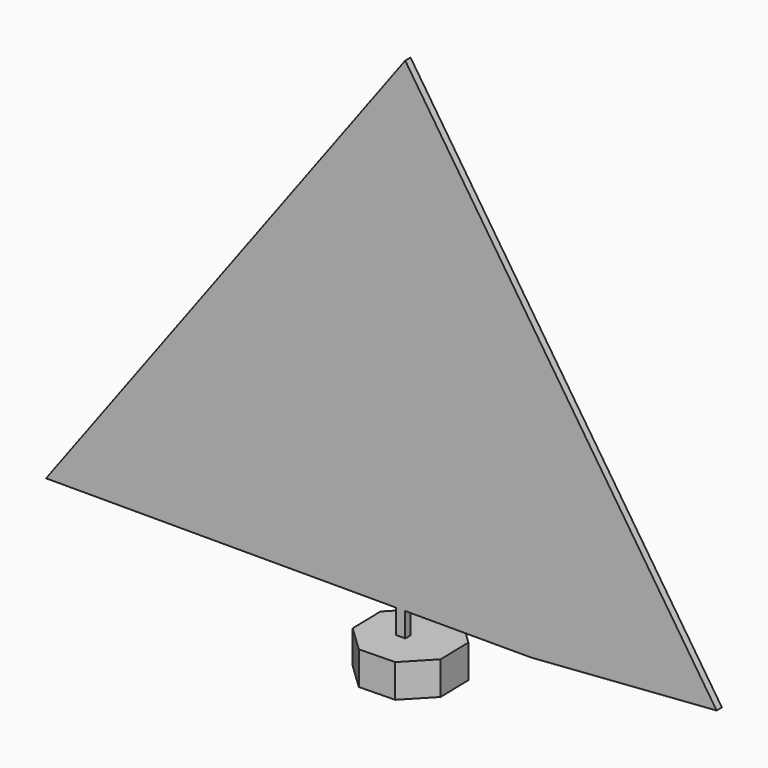
from build123d import *

# Parameters (mm, degrees)
F1_DEPTH = 10
F3_DEPTH = 2


with BuildPart() as f1:
    # F0 (on Top) → F1 (new body)
    with BuildSketch(Plane.XY):
        Polygon((-5.680988, 12.879334), (-13.124129, 5.089999), (-12.879334, -5.680988), (-5.089999, -13.124129), (5.680988, -12.879334), (13.124129, -5.089999), (12.879334, 5.680988), (5.089999, 13.124129), align=None)
    extrude(amount=-F1_DEPTH)


with BuildPart() as f3:
    # F2 (on Front) → F3 (new body)
    with BuildSketch(Plane.XZ):
        Polygon((-2.808472, 0), (0, 0), (0, 7.280002), (0, 14.560004), (20.74383, 14.560004), (0, 42.571541), (0, 55.319596), (-31.359844, 14.560004), (-5.616945, 14.560004), (-2.808472, 7.280002), align=None)
        Polygon((0, 14.560004), (0, 7.280002), (38.019471, 7.280002), (0, 62.504523), (0, 90.102866), (-49.321156, 7.280002), (-2.808472, 7.280002), (-5.616945, 14.560004), (-31.359844, 14.560004), (0, 55.319596), (0, 42.571541), (20.74383, 14.560004), align=None)
        Polygon((0, 62.504523), (38.019471, 7.280002), (93.778126, 11.394593), (0, 153.215766), (-108.16288, 7.280002), (-49.321156, 7.280002), (0, 90.102866), align=None)
    extrude(amount=F3_DEPTH)


solid = Compound([f1.part, f3.part])
